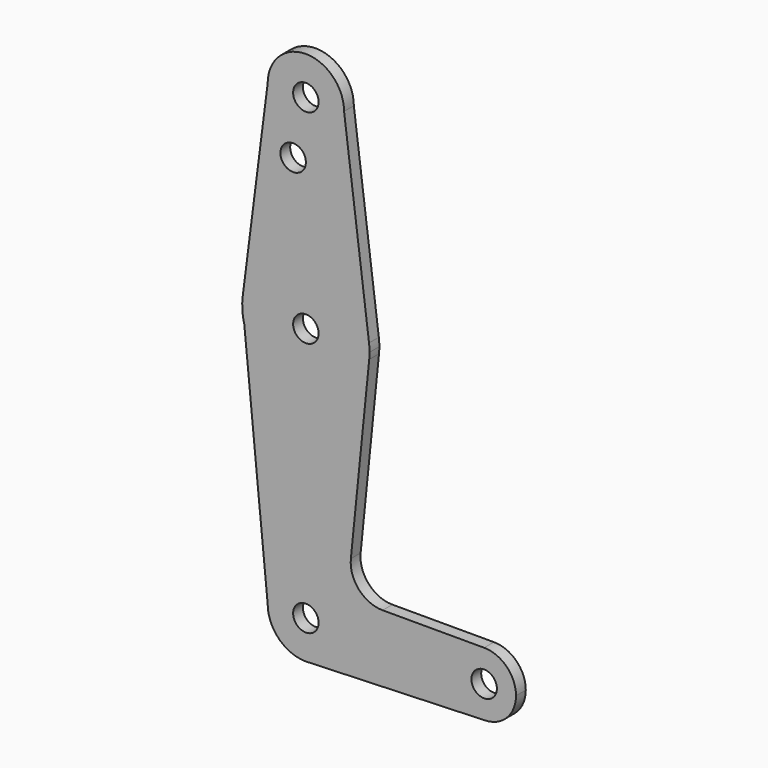
from build123d import *

# Parameters (mm, degrees)
F0_R     = 3.175
F1_DEPTH = 3.048


with BuildPart() as f1:
    # F0 (on Front) → F1 (new body)
    with BuildSketch(Plane.XZ):
        with BuildLine():
            ThreePointArc((15.794203, 61.90038), (15.854788, 62.699171), (15.875, 63.5))
            ThreePointArc((15.875, 63.5), (15.843082, 64.506168), (15.747457, 65.508289))
            ThreePointArc((15.747457, 65.508289), (0, 79.375), (-15.747457, 65.508289))
            ThreePointArc((-15.747457, 65.508289), (-15.841077, 62.462746), (-15.351122, 59.455414))
            ThreePointArc((-15.351122, 59.455414), (1.242395, 47.67369), (15.794203, 61.90038))
        make_face()
        with Locations((0, 63.5)):
            Circle(F0_R, mode=Mode.SUBTRACT)
        with BuildLine():
            ThreePointArc((-15.747457, 65.508289), (0, 79.375), (15.747457, 65.508289))
            Line((15.747457, 65.508289), (9.525, 114.3))
            ThreePointArc((9.525, 114.3), (0, 104.775), (-9.525, 114.3))
            Line((-9.525, 114.3), (-15.747457, 65.508289))
        make_face()
        with Locations((-3.175, 100.0252)):
            Circle(F0_R, mode=Mode.SUBTRACT)
        with BuildLine():
            Line((11.215222, 16.688789), (15.794203, 61.90038))
            ThreePointArc((15.794203, 61.90038), (1.242395, 47.67369), (-15.351122, 59.455414))
            Line((-15.351122, 59.455414), (-9.525, 0))
            ThreePointArc((-9.525, 0), (0, 9.525), (9.525, 0))
            ThreePointArc((9.525, 0), (6.970557, -6.491299), (0.677344, -9.500886))
            Line((0.677344, -9.500886), (44.732405, -7.932475))
            ThreePointArc((44.732405, -7.932475), (36.513756, -0.141225), (44.45, 7.9375))
            Line((44.45, 7.9375), (19.124959, 7.9375))
            ThreePointArc((19.124959, 7.9375), (13.226887, 10.556806), (11.215222, 16.688789))
        make_face()
        with BuildLine():
            ThreePointArc((-9.525, 114.3), (0, 104.775), (9.525, 114.3))
            ThreePointArc((9.525, 114.3), (0, 123.825), (-9.525, 114.3))
        make_face()
        with Locations((0, 114.3)):
            Circle(F0_R, mode=Mode.SUBTRACT)
        with BuildLine():
            ThreePointArc((9.525, 0), (0, 9.525), (-9.525, 0))
            ThreePointArc((-9.525, 0), (-6.735192, -6.735192), (0, -9.525))
            Line((0, -9.525), (0.677344, -9.500886))
            ThreePointArc((0.677344, -9.500886), (6.970557, -6.491299), (9.525, 0))
        make_face()
        Circle(F0_R, mode=Mode.SUBTRACT)
        with BuildLine():
            Line((0.677344, -9.500886), (0, -9.525))
            ThreePointArc((0, -9.525), (0.338886, -9.51897), (0.677344, -9.500886))
        make_face()
        with BuildLine():
            ThreePointArc((52.3875, 0), (50.06266, 5.61266), (44.45, 7.9375))
            ThreePointArc((44.45, 7.9375), (36.513756, -0.141225), (44.732405, -7.932475))
            ThreePointArc((44.732405, -7.932475), (50.161633, -5.51191), (52.3875, 0))
        make_face()
        with Locations((44.45, 0)):
            Circle(F0_R, mode=Mode.SUBTRACT)
    extrude(amount=F1_DEPTH)


solid = f1.part
